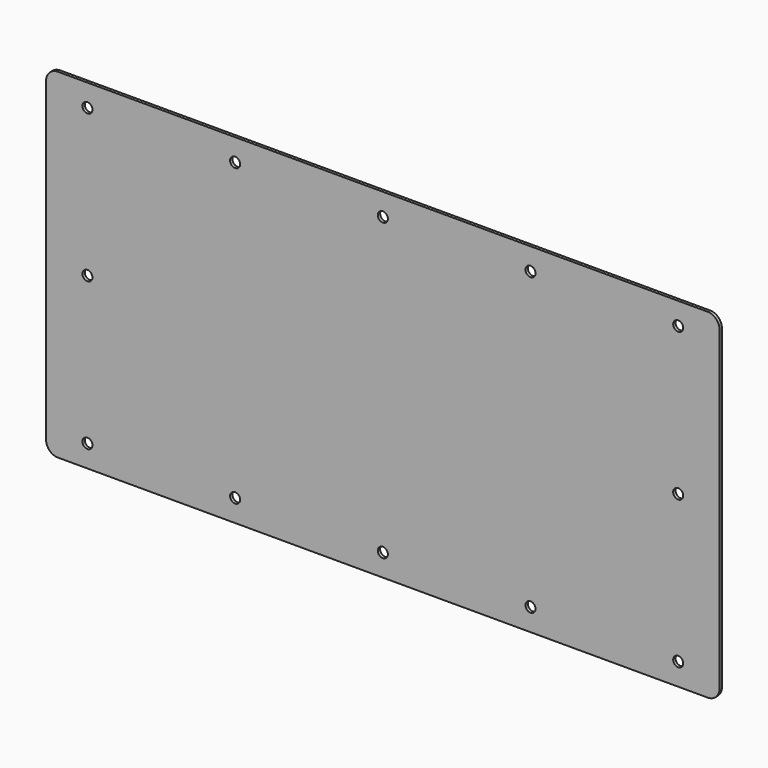
from build123d import *

# Parameters (mm, degrees)
F0_W     = 228
F0_H     = 115
F1_DEPTH = 1
F2_R     = 4
F4_D     = 3.4


with BuildPart() as f1:
    # F0 (on Front) → F1 (new body)
    with BuildSketch(Plane.XZ):
        Rectangle(F0_W, F0_H)
    extrude(amount=F1_DEPTH)

    # F2
    f2_edges = [f1.edges().sort_by_distance(p)[0] for p in [
        (114, -0.5, 57.5),
        (-114, -0.5, 57.5),
        (-114, -0.5, -57.5),
        (114, -0.5, -57.5),
    ]]
    fillet(f2_edges, radius=F2_R)

    # F4 (through all)
    with Locations(Plane.XZ.offset(1)):
        with Locations((-50, 50), (-100, 0), (-100, -50), (-50, -50), (-100, 50), (0, 50), (100, -50), (0, -50), (50, -50), (100, 50), (100, 0), (50, 50)):
            Hole(F4_D / 2)


solid = f1.part
